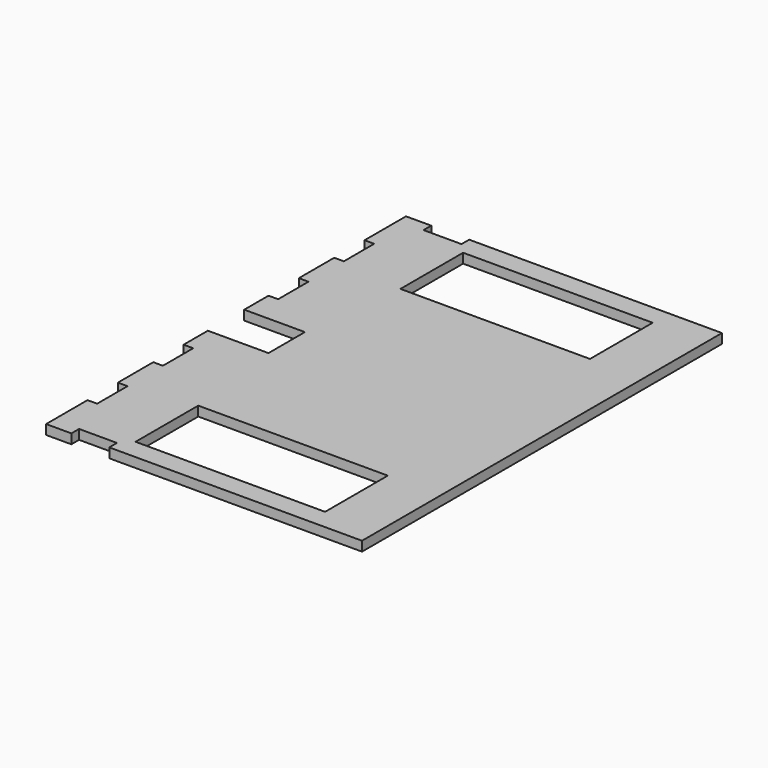
from build123d import *

# Parameters (mm, degrees)
F0_W     = 75
F0_H     = 31
F0_W_2   = 3.81
F0_H_2   = 15
F1_DEPTH = 3.81


with BuildPart() as f1:
    # F0 (on Top) → F1 (new body)
    with BuildSketch(Plane.XY):
        Polygon((62.5, 79), (62.5, 89), (-37.5, 89), (-37.5, 85.19), (-52.5, 85.19), (-52.5, 89), (-62.5, 89), (-62.5, 68.5), (-58.69, 68.5), (-58.69, 53.5), (-62.5, 53.5), (-62.5, 36), (-58.69, 36), (-58.69, 21), (-62.5, 21), (-62.5, 9), (-38.5, 9), (-38.5, 0), (-38.5, -9), (-62.5, -9), (-62.5, -21), (-58.69, -21), (-58.69, -36), (-62.5, -36), (-62.5, -53.5), (-58.69, -53.5), (-58.69, -68.5), (-62.5, -68.5), (-62.5, -89), (-52.5, -89), (-52.5, -85.19), (-37.5, -85.19), (-37.5, -89), (62.5, -89), (62.5, -79), (58.69, -79), (58.69, -64), (62.5, -64), (62.5, -54), (58.69, -54), (58.69, -39), (62.5, -39), (62.5, 39), (58.69, 39), (58.69, 54), (62.5, 54), (62.5, 64), (58.69, 64), (58.69, 79), align=None)
        with Locations((4, -65.5)):
            Rectangle(F0_W, F0_H, mode=Mode.SUBTRACT)
        with Locations((4, 65.5)):
            Rectangle(F0_W, F0_H, mode=Mode.SUBTRACT)
        with Locations((60.595, -71.5)):
            Rectangle(F0_W_2, F0_H_2)
        with Locations((60.595, -46.5)):
            Rectangle(F0_W_2, F0_H_2)
        with Locations((60.595, 46.5)):
            Rectangle(F0_W_2, F0_H_2)
        with Locations((60.595, 71.5)):
            Rectangle(F0_W_2, F0_H_2)
    extrude(amount=F1_DEPTH)


solid = f1.part
